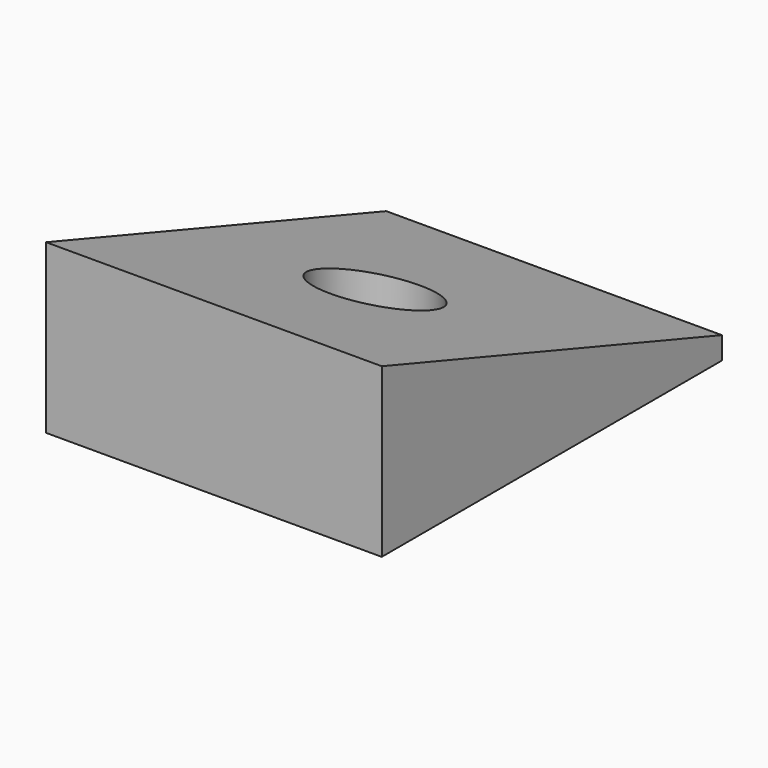
from build123d import *

# Parameters (mm, degrees)
F2_DEPTH = 7.5
F3_DEPTH = 10


with BuildPart() as f2:
    # F1 (on Right) → F2 (new body, symmetric)
    with BuildSketch(Plane.YZ):
        Polygon((-9, 0), (0, 0), (10, 0), (10, 1), (-9, 7.5), align=None)
    extrude(amount=F2_DEPTH, both=True)

    # F0 (on Top) → F3 (cut, symmetric)
    with BuildSketch(Plane.XY):
        with BuildLine():
            ThreePointArc((-2.5, 0), (0, -2.5), (2.5, 0))
            Line((2.5, 0), (-2.5, 0))
        make_face()
        with BuildLine():
            Line((-2.5, 0), (2.5, 0))
            ThreePointArc((2.5, 0), (0, 2.5), (-2.5, 0))
        make_face()
    extrude(amount=F3_DEPTH, both=True, mode=Mode.SUBTRACT)


solid = f2.part
